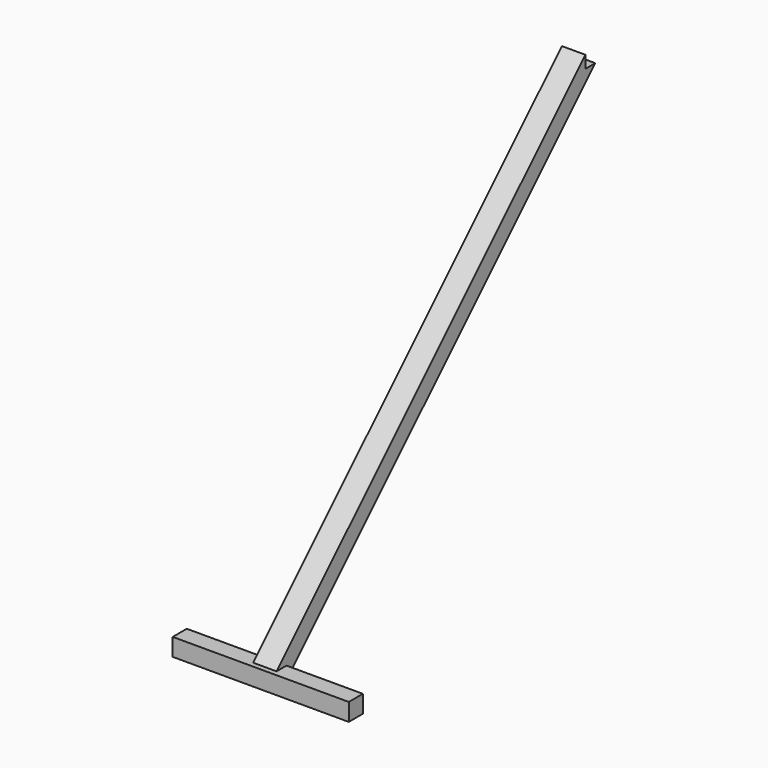
from build123d import *

# Parameters (mm, degrees)
F1_DEPTH = 10
F2_DEPTH = 75


with BuildPart() as f1:
    # F0 (on Right) → F1 (new body, symmetric)
    with BuildSketch(Plane.YZ):
        Polygon((149.497071, 227.858104), (-179.307582, -100.946549), (-168.700981, -100.946549), (-168.700981, -111.553151), (160.103673, 217.251502), (149.497071, 217.251502), align=None)
    extrude(amount=F1_DEPTH, both=True)

    # F0 (on Right) → F2 (join, symmetric)
    with BuildSketch(Plane.YZ):
        Polygon((-168.700981, -111.553151), (-179.307582, -100.946549), (-183.700981, -100.946549), (-183.700981, -115.946549), (-168.700981, -115.946549), align=None)
        Polygon((-168.700981, -100.946549), (-179.307582, -100.946549), (-168.700981, -111.553151), align=None)
    extrude(amount=F2_DEPTH, both=True)


solid = f1.part
